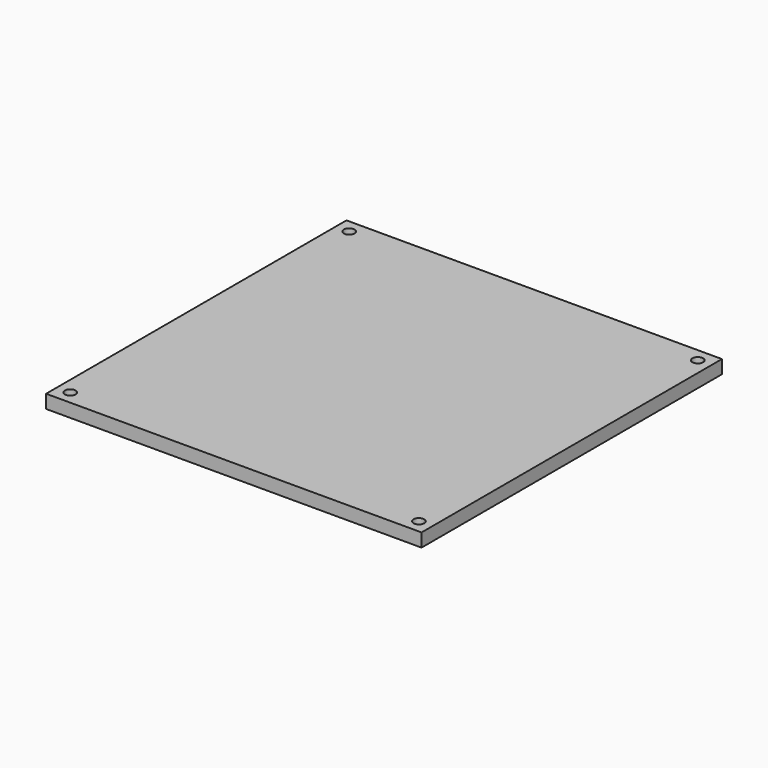
from build123d import *

# Parameters (mm, degrees)
F0_W     = 177.8
F0_H     = 177.8
F0_R     = 2.5527
F0_W_2   = 152.4
F0_H_2   = 152.4
F1_DEPTH = 6.35


with BuildPart() as f1:
    # F0 (on Top) → F1 (new body)
    with BuildSketch(Plane.XY):
        Rectangle(F0_W, F0_H)
        with Locations((-82.55, -82.55)):
            Circle(F0_R, mode=Mode.SUBTRACT)
        with Locations((82.55, -82.55)):
            Circle(F0_R, mode=Mode.SUBTRACT)
        with Locations((-82.55, 82.55)):
            Circle(F0_R, mode=Mode.SUBTRACT)
        Rectangle(F0_W_2, F0_H_2, mode=Mode.SUBTRACT)
        with Locations((82.55, 82.55)):
            Circle(F0_R, mode=Mode.SUBTRACT)
        Rectangle(F0_W_2, F0_H_2)
    extrude(amount=F1_DEPTH)


solid = f1.part
